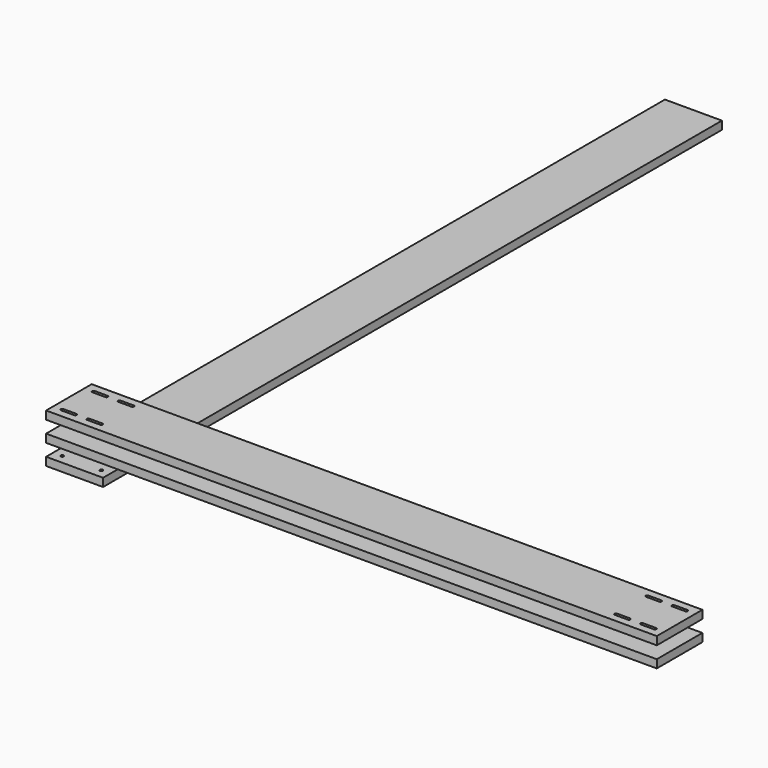
from build123d import *

# Parameters (mm, degrees)
F0_W            = 280
F0_H            = 3800
F1_DEPTH        = 40
F3_W            = 3000
F3_H            = 280
F4_DEPTH        = 40
F6_W            = 3000
F6_H            = 280
F7_DEPTH        = 40
F8_D            = 8
F8_START        = 160
F8_CSINK_D      = 15
F8_CSINK_ANGLE  = 90
F10_D           = 10
F10_DEPTH       = 50
F10_CSINK_D     = 16
F10_CSINK_ANGLE = 90
F10_TIP         = 3.0043030951


with BuildPart() as f1:
    # F0 (on Top) → F1 (new body)
    with BuildSketch(Plane.XY):
        with Locations((140, 1900)):
            Rectangle(F0_W, F0_H)
    extrude(amount=F1_DEPTH)

    # F8 (through all)
    # its depths count from where the whole tool has entered the part; down to there all is cleared
    with Locations(Plane.XY.offset(200).offset(-F8_START)):
        with Locations((44, 236), (236, 236), (236, 44), (44, 44)):
            CounterSinkHole(F8_D / 2, F8_CSINK_D / 2, counter_sink_angle=F8_CSINK_ANGLE)

    # F10
    with Locations(Plane(origin=(0, 0, 0), x_dir=(0, -1, 0), z_dir=(-1, 0, 0))):
        with Locations((-3750, 20), (-3700, 20), (-3500, 20), (-3300, 20), (-3250, 20)):
            CounterSinkHole(F10_D / 2, F10_CSINK_D / 2, depth=F10_DEPTH, counter_sink_angle=F10_CSINK_ANGLE)
            with Locations((0, 0, -(F10_DEPTH + F10_TIP / 2))):  # 118° drill point
                Cone(0, F10_D / 2, F10_TIP, mode=Mode.SUBTRACT)


with BuildPart() as f4:
    # F3 (on offset) → F4 (new body)
    with BuildSketch(Plane.XY.offset(100)):
        with Locations((1500, 140)):
            Rectangle(F3_W, F3_H)
    extrude(amount=F4_DEPTH)


with BuildPart() as f7:
    # F6 (on offset) → F7 (new body)
    with BuildSketch(Plane.XY.offset(200)):
        with Locations((1500, 140)):
            Rectangle(F6_W, F6_H)
        with BuildLine():
            ThreePointArc((44, 37), (37, 44), (44, 51))
            Line((44, 51), (108, 51))
            ThreePointArc((108, 51), (115, 44), (108, 37))
            Line((108, 37), (44, 37))
        make_face(mode=Mode.SUBTRACT)
        with BuildLine():
            Line((236, 37), (172, 37))
            ThreePointArc((172, 37), (165, 44), (172, 51))
            Line((172, 51), (236, 51))
            ThreePointArc((236, 51), (243, 44), (236, 37))
        make_face(mode=Mode.SUBTRACT)
        with BuildLine():
            ThreePointArc((2828, 51), (2835, 44), (2828, 37))
            Line((2828, 37), (2764, 37))
            ThreePointArc((2764, 37), (2757, 44), (2764, 51))
            Line((2764, 51), (2828, 51))
        make_face(mode=Mode.SUBTRACT)
        with BuildLine():
            Line((2892, 51), (2956, 51))
            ThreePointArc((2956, 51), (2963, 44), (2956, 37))
            Line((2956, 37), (2892, 37))
            ThreePointArc((2892, 37), (2885, 44), (2892, 51))
        make_face(mode=Mode.SUBTRACT)
        with BuildLine():
            Line((108, 229), (44, 229))
            ThreePointArc((44, 229), (37, 236), (44, 243))
            Line((44, 243), (108, 243))
            ThreePointArc((108, 243), (115, 236), (108, 229))
        make_face(mode=Mode.SUBTRACT)
        with BuildLine():
            ThreePointArc((236, 243), (243, 236), (236, 229))
            Line((236, 229), (172, 229))
            ThreePointArc((172, 229), (165, 236), (172, 243))
            Line((172, 243), (236, 243))
        make_face(mode=Mode.SUBTRACT)
        with BuildLine():
            Line((2828, 229), (2764, 229))
            ThreePointArc((2764, 229), (2757, 236), (2764, 243))
            Line((2764, 243), (2828, 243))
            ThreePointArc((2828, 243), (2835, 236), (2828, 229))
        make_face(mode=Mode.SUBTRACT)
        with BuildLine():
            ThreePointArc((2892, 229), (2885, 236), (2892, 243))
            Line((2892, 243), (2956, 243))
            ThreePointArc((2956, 243), (2963, 236), (2956, 229))
            Line((2956, 229), (2892, 229))
        make_face(mode=Mode.SUBTRACT)
    extrude(amount=F7_DEPTH)


solid = Compound([f1.part, f4.part, f7.part])
